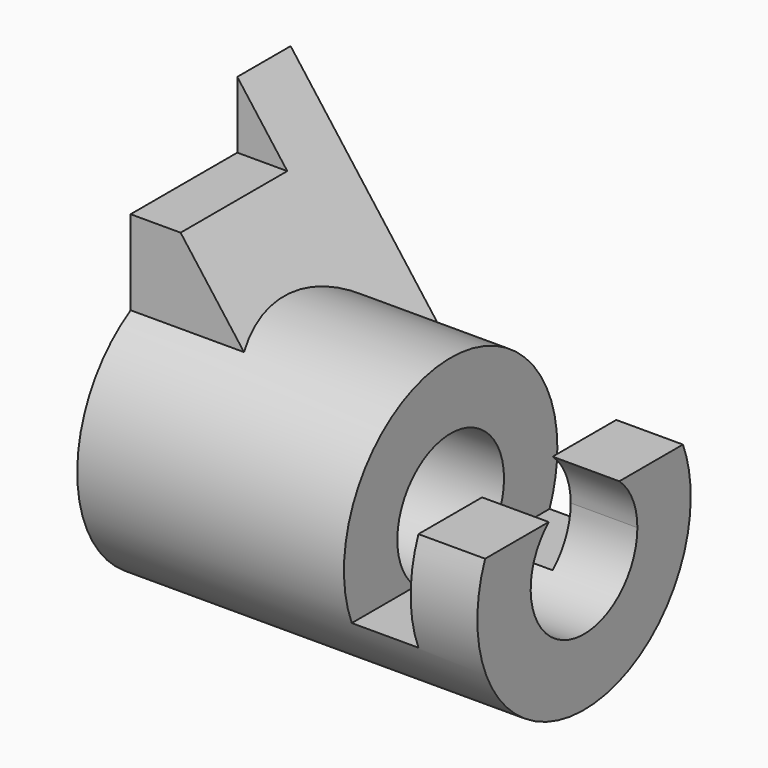
from build123d import *

# Parameters (mm, degrees)
F1_DEPTH = 38.1
F2_R     = 25.4
F3_DEPTH = 76.2
F4_R     = 12.7
F5_DEPTH = 76.201
F7_DEPTH = 50.801
F8_W     = 25.4
F8_H     = 12.7
F9_DEPTH = 25.4


with BuildPart() as f1:
    # F0 (on Front) → F1 (new body)
    with BuildSketch(Plane.XZ):
        Polygon((0, 50.8), (0, 0), (38.1, 0), align=None)
    extrude(amount=F1_DEPTH)

    # F2 (on Right) → F3 (join)
    with BuildSketch(Plane.YZ):
        with Locations((-25.4, 0)):
            Circle(F2_R)
    extrude(amount=F3_DEPTH)

    # F4 (on face) → F5 (cut, through all)
    with BuildSketch(Plane.YZ.offset(76.2)):
        with Locations((-25.4, 0)):
            Circle(F4_R)
    extrude(amount=-F5_DEPTH, mode=Mode.SUBTRACT)

    # F6 (on Front) → F7 (cut, through all)
    with BuildSketch(Plane.XZ):
        Polygon((76.2, 25.4), (50.8, 25.4), (50.8, -9.525), (63.5, -9.525), (63.5, 9.525), (76.2, 9.525), align=None)
    extrude(amount=F7_DEPTH, mode=Mode.SUBTRACT)

    # F8 (on Right) → F9 (cut)
    with BuildSketch(Plane.YZ):
        with Locations((-25.4, 44.45)):
            Rectangle(F8_W, F8_H)
    extrude(amount=F9_DEPTH, mode=Mode.SUBTRACT)


solid = f1.part
